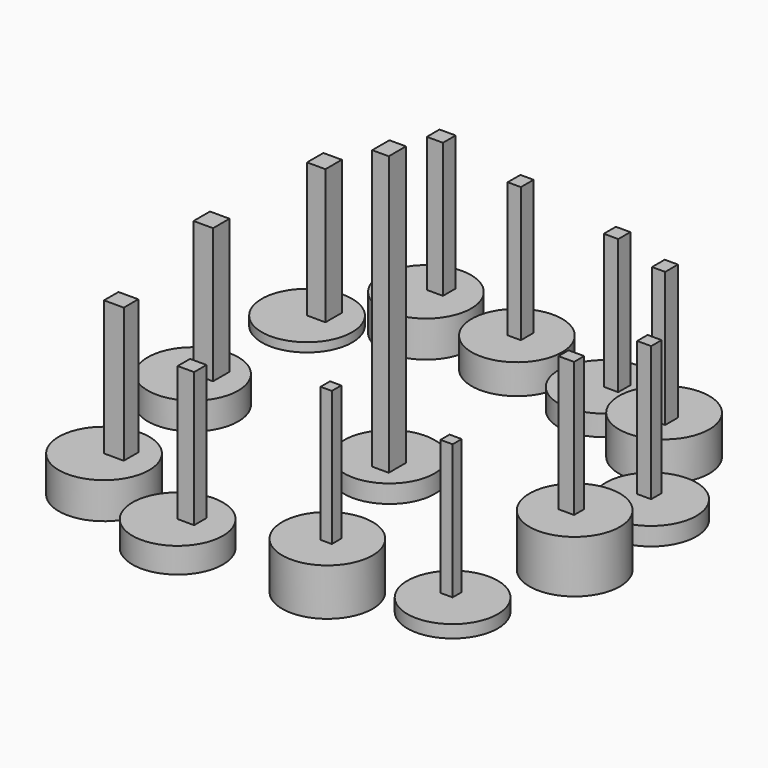
from build123d import *

# Parameters (mm, degrees)
F1_R      = 12.7
F2_DEPTH  = 5.08
F3_R      = 12.7
F4_DEPTH  = 7.62
F5_R      = 12.7
F6_DEPTH  = 10.16
F7_R      = 12.7
F8_DEPTH  = 2.54
F9_R      = 12.7
F10_DEPTH = 10.16
F11_R     = 12.7
F12_DEPTH = 8.382
F13_R     = 12.7
F14_DEPTH = 5.842
F15_R     = 12.7
F16_DEPTH = 10.922
F17_R     = 12.7
F18_DEPTH = 5.08
F19_R     = 12.7
F20_DEPTH = 14.732
F21_R     = 12.7
F22_DEPTH = 3.556
F23_R     = 12.7
F24_DEPTH = 13.208
F25_R     = 12.7
F26_DEPTH = 7.112
F28_W     = 4.6502533369
F28_H     = 6.035386119
F29_DEPTH = 78.232
F30_W     = 5.5531486869
F30_H     = 5.0790570676
F31_DEPTH = 37.846
F33_W     = 5.4783672094
F33_H     = 5.7789068669
F34_DEPTH = 37.846
F35_W     = 5.1721557975
F35_H     = 5.7389475405
F36_DEPTH = 37.846
F37_W     = 4.5215077698
F37_H     = 4.4553652406
F38_DEPTH = 37.846
F39_W     = 3.7037907168
F39_H     = 4.4649019837
F40_DEPTH = 37.846
F41_W     = 4.065323621
F41_H     = 4.2393356562
F42_DEPTH = 37.846
F43_W     = 3.7037879229
F43_H     = 4.4649019837
F44_DEPTH = 37.846
F45_W     = 3.9252713323
F45_H     = 3.6589708179
F46_DEPTH = 37.846
F47_W     = 4.385560751
F47_H     = 3.5465881228
F48_DEPTH = 37.846
F49_W     = 3.4073777497
F49_H     = 3.1843148172
F50_DEPTH = 37.846
F51_W     = 3.1643118709
F51_H     = 3.3308565617
F52_DEPTH = 37.846
F53_W     = 4.6169674024
F53_H     = 4.3400600553
F54_DEPTH = 37.846


with BuildPart() as f2:
    # F1 (on face) → F2 (new body)
    with BuildSketch(Plane.XY):
        Circle(F1_R)
    extrude(amount=F2_DEPTH)

    # F28 (on face) → F29 (join)
    with BuildSketch(Plane.XY.offset(5.08)):
        with Locations((2.3251266684, -3.0176930595)):
            Rectangle(F28_W, F28_H)
    extrude(amount=F29_DEPTH)


with BuildPart() as f4:
    # F3 (on Top) → F4 (new body)
    with BuildSketch(Plane.XY):
        with Locations((-55.1319494843, 0)):
            Circle(F3_R)
    extrude(amount=F4_DEPTH)

    # F33 (on face) → F34 (join)
    with BuildSketch(Plane.XY.offset(7.62)):
        with Locations((-52.2565543652, 2.8894534335)):
            Rectangle(F33_W, F33_H)
    extrude(amount=F34_DEPTH)


with BuildPart() as f6:
    # F5 (on Top) → F6 (new body)
    with BuildSketch(Plane.XY):
        with Locations((-43.742377311, -45.489422977)):
            Circle(F5_R)
    extrude(amount=F6_DEPTH)

    # F30 (on face) → F31 (join)
    with BuildSketch(Plane.XY.offset(10.16)):
        with Locations((-40.9658029675, -42.9498944432)):
            Rectangle(F30_W, F30_H)
    extrude(amount=F31_DEPTH)


with BuildPart() as f8:
    # F7 (on Top) → F8 (new body)
    with BuildSketch(Plane.XY):
        with Locations((-59.0443722904, 44.8915213346)):
            Circle(F7_R)
    extrude(amount=F8_DEPTH)

    # F35 (on face) → F36 (join)
    with BuildSketch(Plane.XY.offset(2.54)):
        with Locations((-56.4582943916, 47.7609951049)):
            Rectangle(F35_W, F35_H)
    extrude(amount=F36_DEPTH)


with BuildPart() as f10:
    # F9 (on Top) → F10 (new body)
    with BuildSketch(Plane.XY):
        with Locations((-36.562923342, 58.5239231586)):
            Circle(F9_R)
    extrude(amount=F10_DEPTH)

    # F37 (on face) → F38 (join)
    with BuildSketch(Plane.XY.offset(10.16)):
        with Locations((-34.710438922, 61.5828000009)):
            Rectangle(F37_W, F37_H)
    extrude(amount=F38_DEPTH)


with BuildPart() as f12:
    # F11 (on Top) → F12 (new body)
    with BuildSketch(Plane.XY):
        with Locations((-10.1596266031, 57.4495196342)):
            Circle(F11_R)
    extrude(amount=F12_DEPTH)

    # F39 (on face) → F40 (join)
    with BuildSketch(Plane.XY.offset(8.382)):
        with Locations((-9.9434540607, 58.4898106754)):
            Rectangle(F39_W, F39_H)
    extrude(amount=F40_DEPTH)


with BuildPart() as f14:
    # F13 (on Top) → F14 (new body)
    with BuildSketch(Plane.XY):
        with Locations((16.884688288, 54.1342832148)):
            Circle(F13_R)
    extrude(amount=F14_DEPTH)

    # F41 (on face) → F42 (join)
    with BuildSketch(Plane.XY.offset(5.842)):
        with Locations((18.9173500985, 56.2539510429)):
            Rectangle(F41_W, F41_H)
    extrude(amount=F42_DEPTH)


with BuildPart() as f16:
    # F15 (on Top) → F16 (new body)
    with BuildSketch(Plane.XY):
        with Locations((40.9741178155, 45.196633786)):
            Circle(F15_R)
    extrude(amount=F16_DEPTH)

    # F43 (on face) → F44 (join)
    with BuildSketch(Plane.XY.offset(10.922)):
        with Locations((42.9651290178, 43.0098474026)):
            Rectangle(F43_W, F43_H)
    extrude(amount=F44_DEPTH)


with BuildPart() as f18:
    # F17 (on Top) → F18 (new body)
    with BuildSketch(Plane.XY):
        with Locations((57.4227981269, 20.0983900577)):
            Circle(F17_R)
    extrude(amount=F18_DEPTH)

    # F45 (on face) → F46 (join)
    with BuildSketch(Plane.XY.offset(5.08)):
        with Locations((55.4601624608, 21.9278754666)):
            Rectangle(F45_W, F45_H)
    extrude(amount=F46_DEPTH)


with BuildPart() as f20:
    # F19 (on Top) → F20 (new body)
    with BuildSketch(Plane.XY):
        with Locations((59.1646693647, -8.9216995984)):
            Circle(F19_R)
        with Locations((59.1646693647, -8.9216995984)):
            Circle(F19_R)
    extrude(amount=F20_DEPTH)

    # F47 (on face) → F48 (join)
    with BuildSketch(Plane.XY.offset(14.732)):
        with Locations((58.28903988, -9.0126572177)):
            Rectangle(F47_W, F47_H)
        with Locations((58.28903988, -9.0126572177)):
            Rectangle(F47_W, F47_H)
    extrude(amount=F48_DEPTH)


with BuildPart() as f22:
    # F21 (on Top) → F22 (new body)
    with BuildSketch(Plane.XY):
        with Locations((50.719294697, -41.2124544382)):
            Circle(F21_R)
    extrude(amount=F22_DEPTH)

    # F49 (on face) → F50 (join)
    with BuildSketch(Plane.XY.offset(3.556)):
        with Locations((49.0156058222, -39.6202970296)):
            Rectangle(F49_W, F49_H)
    extrude(amount=F50_DEPTH)


with BuildPart() as f24:
    # F23 (on Top) → F24 (new body)
    with BuildSketch(Plane.XY):
        with Locations((23.4532225877, -51.079928875)):
            Circle(F23_R)
    extrude(amount=F24_DEPTH)

    # F51 (on face) → F52 (join)
    with BuildSketch(Plane.XY.offset(13.208)):
        with Locations((24.2088520899, -50.7884994149)):
            Rectangle(F51_W, F51_H)
    extrude(amount=F52_DEPTH)


with BuildPart() as f26:
    # F25 (on Top) → F26 (new body)
    with BuildSketch(Plane.XY):
        with Locations((-15.3024336323, -55.1789626479)):
            Circle(F25_R)
    extrude(amount=F26_DEPTH)

    # F53 (on face) → F54 (join)
    with BuildSketch(Plane.XY.offset(7.112)):
        with Locations((-12.9939499311, -53.0089326203)):
            Rectangle(F53_W, F53_H)
    extrude(amount=F54_DEPTH)


solid = Compound([f2.part, f4.part, f6.part, f8.part, f10.part, f12.part, f14.part, f16.part, f18.part, f20.part, f22.part, f24.part, f26.part])
